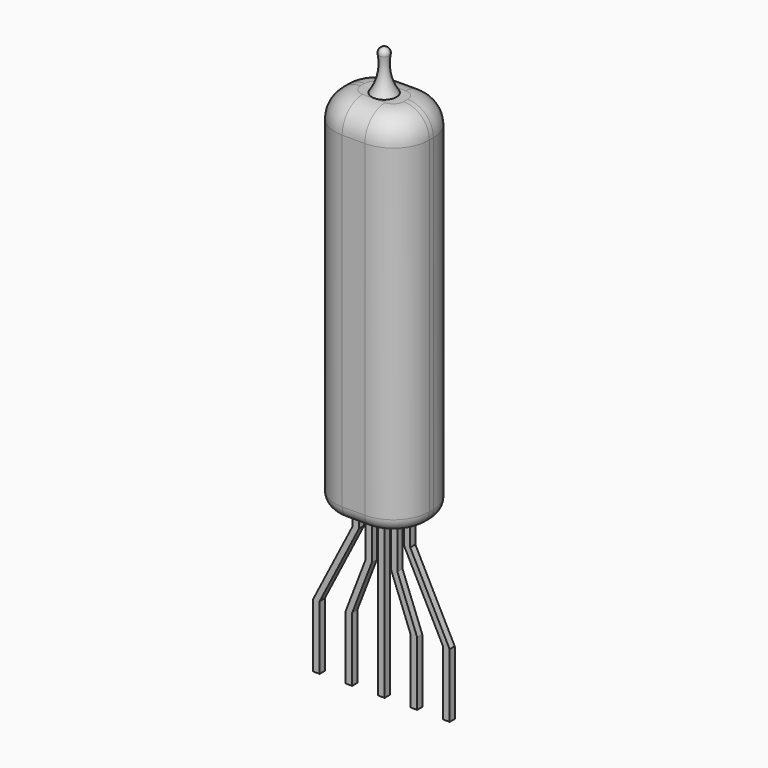
from build123d import *

# Parameters (mm, degrees)
PAD_DEPTH    = 2.9972
FILLET_R     = 2.8
FILLET001_R  = 2
FILLET002_R  = 1
PAD001_DEPTH = 0.25
PAD002_DEPTH = 0.25
SKETCH004_W  = 0.5
SKETCH004_H  = 13
PAD003_DEPTH = 0.25
PAD004_DEPTH = 0.25
PAD005_DEPTH = 0.25


with BuildPart() as fillet002:
    # Sketch → Pad (new body, symmetric)
    with BuildSketch(Plane.XZ):
        Polygon((-3.683, 10), (-3.683, 38.575), (3.683, 38.575), (3.683, 10), (0, 10), align=None)
    extrude(amount=PAD_DEPTH, both=True)

    # Fillet
    fillet_edges = [fillet002.edges().sort_by_distance(p)[0] for p in [
        (3.683, -2.9972, 24.2875),
        (3.683, 2.9972, 24.2875),
        (-3.683, -2.9972, 24.2875),
        (-3.683, 2.9972, 24.2875),
    ]]
    fillet(fillet_edges, radius=FILLET_R)

    # Fillet001
    fillet001_edges = [fillet002.edges().sort_by_distance(p)[0] for p in [
        (2.862899, 2.177099, 38.575),
        (0, 2.9972, 38.575),
        (-2.862899, 2.177099, 38.575),
        (-2.862899, -2.177099, 38.575),
        (0, -2.9972, 38.575),
        (2.862899, -2.177099, 38.575),
        (3.683, 0, 38.575),
        (-3.683, 0, 38.575),
    ]]
    fillet(fillet001_edges, radius=FILLET001_R)

    # Fillet002
    fillet002_edges = [fillet002.edges().sort_by_distance(p)[0] for p in [
        (2.862899, -2.177099, 10),
        (3.683, 0, 10),
        (2.862899, 2.177099, 10),
        (-0.4415, 2.9972, 10),
        (0.4415, 2.9972, 10),
        (0.4415, -2.9972, 10),
        (-0.4415, -2.9972, 10),
        (-2.862899, -2.177099, 10),
        (-3.683, 0, 10),
        (-2.862899, 2.177099, 10),
    ]]
    fillet(fillet002_edges, radius=FILLET002_R)


with BuildPart() as revolution:
    # Sketch001 → Revolution (revolve)
    with BuildSketch(Plane.XZ):
        with BuildLine():
            ThreePointArc((-0.00252, 41.718762), (-0.316632, 41.568752), (-0.401567, 41.23118))
            ThreePointArc((-0.981911, 38.543762), (-0.423058, 39.82945), (-0.401567, 41.23118))
            Line((-0.00252, 38.543762), (-0.981911, 38.543762))
            Line((-0.00252, 41.718762), (-0.00252, 38.543762))
        make_face()
    revolve(axis=Axis((0, 0, 0), (0, 0, 1)))


with BuildPart() as pad001:
    # Sketch002 → Pad001 (new body, symmetric)
    with BuildSketch(Plane.XZ):
        Polygon((1.736213, 10.1), (2.236213, 10.1), (2.236213, 8.1), (5.316213, 2.1), (5.316213, -2.9), (4.816213, -2.9), (4.816213, 2.1), (1.736213, 8.100001), align=None)
    extrude(amount=PAD001_DEPTH, both=True)


with BuildPart() as pad002:
    # Sketch003 → Pad002 (new body, symmetric)
    with BuildSketch(Plane.XZ):
        Polygon((0.736213, 10.1), (1.236213, 10.1), (1.236213, 6.1), (2.776213, 2.1), (2.776213, -2.9), (2.276213, -2.9), (2.276213, 2.1), (0.736213, 6.100001), align=None)
    extrude(amount=PAD002_DEPTH, both=True)


with BuildPart() as pad003:
    # Sketch004 → Pad003 (new body, symmetric)
    with BuildSketch(Plane.XZ):
        with Locations((-0.013787, 3.6)):
            Rectangle(SKETCH004_W, SKETCH004_H)
    extrude(amount=PAD003_DEPTH, both=True)


with BuildPart() as pad004:
    # Sketch005 → Pad004 (new body, symmetric)
    with BuildSketch(Plane.XZ):
        Polygon((-0.763787, 10.1), (-1.263787, 10.1), (-1.263787, 6.100001), (-2.803787, 2.1), (-2.803787, -2.9), (-2.303787, -2.9), (-2.303787, 2.117351), (-0.763787, 6.1), align=None)
    extrude(amount=PAD004_DEPTH, both=True)


with BuildPart() as pad005:
    # Sketch006 → Pad005 (new body, symmetric)
    with BuildSketch(Plane.XZ):
        Polygon((-1.763787, 10.1), (-2.263787, 10.1), (-2.263787, 8.1), (-5.343787, 2.1), (-5.343787, -2.9), (-4.843787, -2.9), (-4.843787, 2.1), (-1.763787, 8.100001), align=None)
    extrude(amount=PAD005_DEPTH, both=True)


solid = Compound([fillet002.part, revolution.part, pad001.part, pad002.part, pad003.part, pad004.part, pad005.part])
